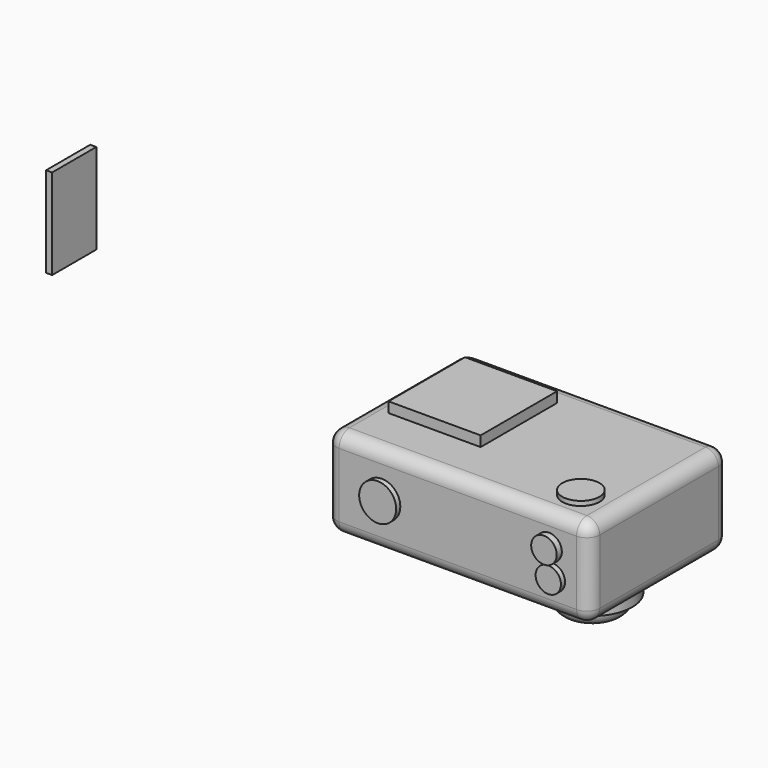
from build123d import *

# Parameters (mm, degrees)
F0_W      = 103.594608
F0_H      = 68.454988
F0_W_2    = 2.380431
F0_H_2    = 21.722003
F1_DEPTH  = 35.56
F2_R      = 5.08
F3_R      = 15.725324
F4_DEPTH  = 8.636
F5_R      = 12.652435
F6_DEPTH  = 6.096
F7_R      = 5.08
F8_W      = 36.244502
F8_H      = 37.605167
F9_DEPTH  = 4.064
F10_R     = 7.282007
F11_DEPTH = 2.032
F12_R     = 4.977168
F13_DEPTH = 2.032
F14_R     = 5.013773
F15_DEPTH = 2.54
F16_R     = 7.327619
F17_DEPTH = 1.778


with BuildPart() as f1:
    # F0 (on Top) → F1 (new body)
    with BuildSketch(Plane.XY):
        with Locations((-9.590026, 34.227494)):
            Rectangle(F0_W, F0_H)
        with Locations((-234.970912, 91.555051)):
            Rectangle(F0_W_2, F0_H_2)
    extrude(amount=F1_DEPTH)

    # F2
    f2_edges = [f1.edges().sort_by_distance(p)[0] for p in [
        (-9.590026, 0, 35.56),
        (-61.38733, 0, 17.78),
        (42.207278, 0, 17.78),
        (-9.590026, 0, 0),
        (42.207278, 68.454988, 17.78),
        (42.207278, 34.227494, 0),
        (42.207278, 34.227494, 35.56),
        (-61.38733, 34.227494, 35.56),
        (-9.590026, 68.454988, 35.56),
        (-61.38733, 68.454988, 17.78),
        (-61.38733, 34.227494, 0),
        (-9.590026, 68.454988, 0),
    ]]
    fillet(f2_edges, radius=F2_R)

    # F3 (on face) → F4 (join)
    with BuildSketch(Plane(origin=(0, 0, 0), x_dir=(1, 0, 0), z_dir=(0, 0, -1))):
        with Locations((17.34825, -32.440465)):
            Circle(F3_R)
    extrude(amount=F4_DEPTH)

    # F5 (on face) → F6 (join)
    with BuildSketch(Plane(origin=(0, 0, -8.636), x_dir=(1, 0, 0), z_dir=(0, 0, -1))):
        with Locations((17.34825, -32.440465)):
            Circle(F5_R)
    extrude(amount=F6_DEPTH)

    # F7
    f7_edges = [f1.edges().sort_by_distance(p)[0] for p in [
        (4.695815, 32.440465, -14.732),
    ]]
    fillet(f7_edges, radius=F7_R)

    # F8 (on face) → F9 (join)
    with BuildSketch(Plane.XY.offset(35.56)):
        with Locations((-34.933013, 39.04146)):
            Rectangle(F8_W, F8_H)
    extrude(amount=F9_DEPTH)

    # F10 (on face) → F11 (join)
    with BuildSketch(Plane.XZ):
        with Locations((-39.503742, 18.17023)):
            Circle(F10_R)
    extrude(amount=F11_DEPTH)

    # F12 (on face) → F13 (join)
    with BuildSketch(Plane.XZ):
        with Locations((27.618997, 13.110625)):
            Circle(F12_R)
    extrude(amount=F13_DEPTH)

    # F14 (on face) → F15 (join)
    with BuildSketch(Plane.XZ):
        with Locations((26.319608, 23.16107)):
            Circle(F14_R)
    extrude(amount=F15_DEPTH)

    # F16 (on face) → F17 (join)
    with BuildSketch(Plane.XY.offset(35.56)):
        with Locations((27.176181, 14.577762)):
            Circle(F16_R)
    extrude(amount=F17_DEPTH)


solid = f1.part
